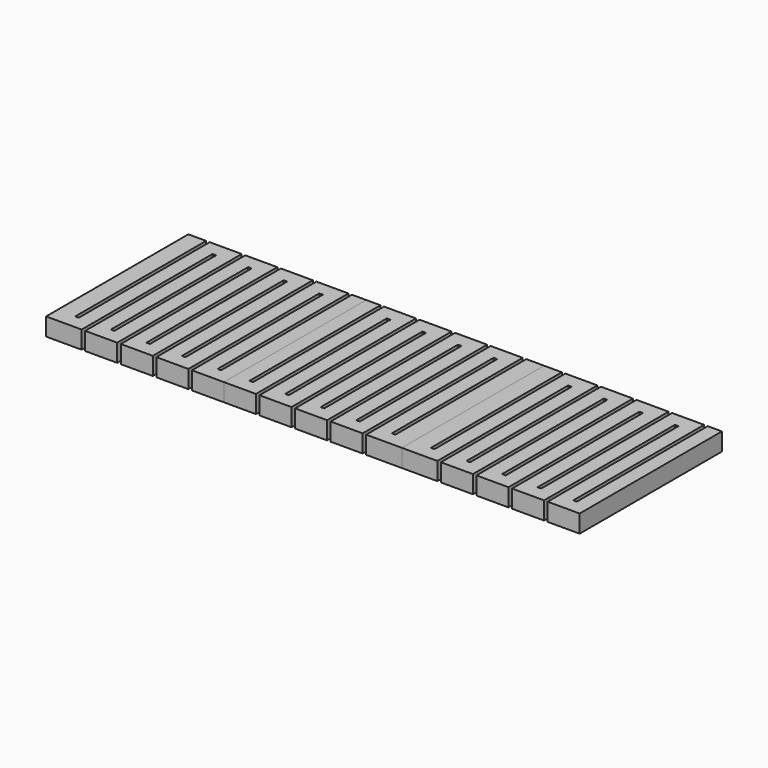
from build123d import *

# Parameters (mm, degrees)
F1_DEPTH = 1


with BuildPart() as f1:
    # F0 (on Top) → F1 (new body)
    with BuildSketch(Plane.XY):
        Polygon((5, -5), (5, 5), (4, 5), (4, -4.2), (3.8, -4.2), (3.8, 5), (2, 5), (2, -4.2), (1.8, -4.2), (1.8, 5), (0.888324, 5), (0, 5), (0, -4.2), (-0.2, -4.2), (-0.2, 5), (-2, 5), (-2, -4.2), (-2.2, -4.2), (-2.2, 5), (-4, 5), (-4, -4.2), (-4.2, -4.2), (-4.2, 5), (-5, 5), (-5, -5), (-3.2, -5), (-3.2, 4.2), (-3, 4.2), (-3, -5), (-1.2, -5), (-1.2, 4.2), (-1, 4.2), (-1, -5), (0.8, -5), (0.8, 4.2), (1, 4.2), (1, -5), (2.8, -5), (2.8, 4.2), (3, 4.2), (3, -5), align=None)
    extrude(amount=F1_DEPTH)


with BuildPart() as f2_1:
    # F2: instance of F1
    add(f1.part.mirror(Plane(origin=(5, 0, 0.5), x_dir=(0, 1, 0), z_dir=(1, 0, 0))))


with BuildPart() as f3_1:
    # F3: instance of F1
    add(f1.part.mirror(Plane(origin=(-5, 0, 0.5), x_dir=(0, -1, 0), z_dir=(-1, 0, 0))))


solid = Compound([f1.part, f2_1.part, f3_1.part])
